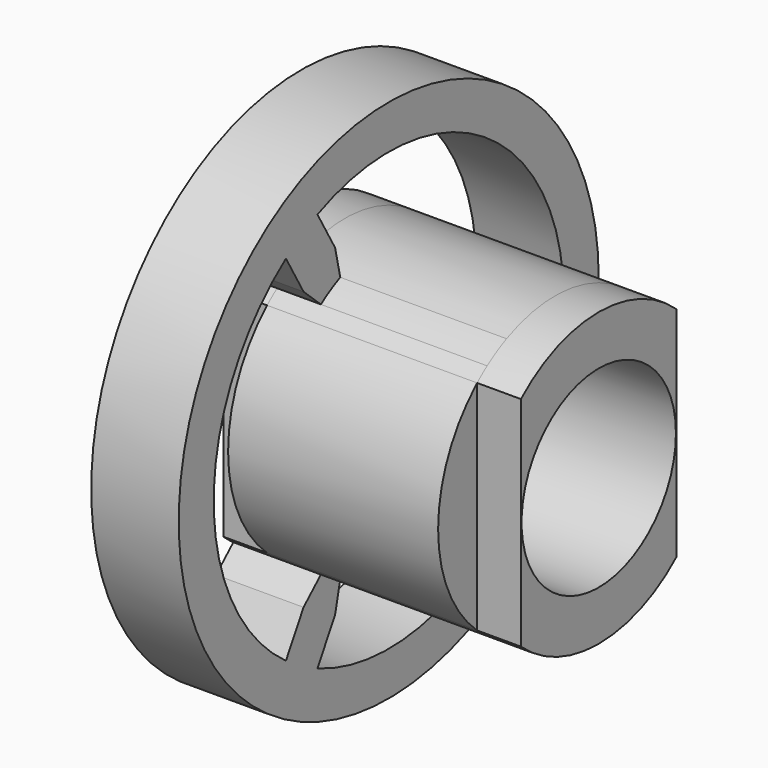
from build123d import *

# Parameters (mm, degrees)
F0_W     = 3.5306
F0_H     = 3.9528298268
F1_DEPTH = 0.79375
F2_DEPTH = 3.81
F3_W     = 3.5306
F3_H     = 3.9528298268
F4_DEPTH = 0.79375
F5_R     = 1.75
F6_DEPTH = 5.3985
F0_R     = 4.7625
F7_DEPTH = 0.79375


with BuildPart() as f1:
    # F0 (on Right) → F1 (new body)
    with BuildSketch(Plane.YZ):
        Rectangle(F0_W, F0_H)
        with BuildLine():
            Line((-1.7653, 1.9764149134), (1.7653, 1.9764149134))
            ThreePointArc((1.7653, 1.9764149134), (0.3978891493, 2.6199588212), (-1.0989290887, 2.4114010156))
            ThreePointArc((-1.0989290887, 2.4114010156), (-1.325, 2.29496732), (-1.5388699938, 2.1574010156))
            ThreePointArc((-1.5388699938, 2.1574010156), (-1.6545615218, 2.0700063214), (-1.7653, 1.9764149134))
        make_face()
        with BuildLine():
            ThreePointArc((-1.0989290887, -2.4114010156), (0.3978891493, -2.6199588212), (1.7653, -1.9764149134))
            Line((1.7653, -1.9764149134), (-1.7653, -1.9764149134))
            ThreePointArc((-1.7653, -1.9764149134), (-1.6545615218, -2.0700063214), (-1.5388699938, -2.1574010156))
            ThreePointArc((-1.5388699938, -2.1574010156), (-1.325, -2.29496732), (-1.0989290887, -2.4114010156))
        make_face()
    extrude(amount=-F1_DEPTH)

    # F0 (on Right) → F2 (join)
    with BuildSketch(Plane.YZ):
        with BuildLine():
            Line((-1.7653, 1.9764149134), (1.7653, 1.9764149134))
            ThreePointArc((1.7653, 1.9764149134), (0.3978891493, 2.6199588212), (-1.0989290887, 2.4114010156))
            ThreePointArc((-1.0989290887, 2.4114010156), (-1.325, 2.29496732), (-1.5388699938, 2.1574010156))
            ThreePointArc((-1.5388699938, 2.1574010156), (-1.6545615218, 2.0700063214), (-1.7653, 1.9764149134))
        make_face()
        with BuildLine():
            ThreePointArc((2.6377990826, -0.254), (2.6469480132, -0.1271464337), (2.65, 0))
            ThreePointArc((2.65, 0), (2.6469480132, 0.1271464337), (2.6377990826, 0.254))
            ThreePointArc((2.6377990826, 0.254), (2.3640005639, 1.1974979473), (1.7653, 1.9764149134))
            Line((1.7653, 1.9764149134), (1.7653, -1.9764149134))
            ThreePointArc((1.7653, -1.9764149134), (2.3640005639, -1.1974979473), (2.6377990826, -0.254))
        make_face()
        with BuildLine():
            Line((-1.7653, -1.9764149134), (-1.7653, 1.9764149134))
            ThreePointArc((-1.7653, 1.9764149134), (-2.65, 0), (-1.7653, -1.9764149134))
        make_face()
        Rectangle(F0_W, F0_H)
        with BuildLine():
            ThreePointArc((-1.0989290887, -2.4114010156), (0.3978891493, -2.6199588212), (1.7653, -1.9764149134))
            Line((1.7653, -1.9764149134), (-1.7653, -1.9764149134))
            ThreePointArc((-1.7653, -1.9764149134), (-1.6545615218, -2.0700063214), (-1.5388699938, -2.1574010156))
            ThreePointArc((-1.5388699938, -2.1574010156), (-1.325, -2.29496732), (-1.0989290887, -2.4114010156))
        make_face()
    extrude(amount=F2_DEPTH)

    # F3 (on face) → F4 (join)
    with BuildSketch(Plane.YZ.offset(3.81)):
        Rectangle(F3_W, F3_H)
        with BuildLine():
            ThreePointArc((1.7653, 1.9764149134), (0, 2.65), (-1.7653, 1.9764149134))
            Line((-1.7653, 1.9764149134), (1.7653, 1.9764149134))
        make_face()
        with BuildLine():
            Line((1.7653, -1.9764149134), (-1.7653, -1.9764149134))
            ThreePointArc((-1.7653, -1.9764149134), (0, -2.65), (1.7653, -1.9764149134))
        make_face()
    extrude(amount=F4_DEPTH)

    # F5 (on face) → F6 (cut, through all)
    with BuildSketch(Plane.YZ.offset(4.60375)):
        Circle(F5_R)
    extrude(amount=-F6_DEPTH, mode=Mode.SUBTRACT)

    # F0 (on Right) → F7 (join, symmetric)
    with BuildSketch(Plane.YZ):
        Circle(F0_R)
        with BuildLine():
            ThreePointArc((-1.6161623386, 3.6247752838), (1.984375, 3.4370383213), (3.9472286481, 0.41275))
            ThreePointArc((3.9472286481, 0.41275), (3.9633660101, 0.2066553478), (3.96875, 0))
            ThreePointArc((3.96875, 0), (3.9633660101, -0.2066553478), (3.9472286481, -0.41275))
            ThreePointArc((3.9472286481, -0.41275), (1.984375, -3.4370383213), (-1.6161623386, -3.6247752838))
            ThreePointArc((-1.6161623386, -3.6247752838), (-1.984375, -3.4370383213), (-2.3310663094, -3.2120252838))
            ThreePointArc((-2.3310663094, -3.2120252838), (-3.96875, 0), (-2.3310663094, 3.2120252838))
            ThreePointArc((-2.3310663094, 3.2120252838), (-1.984375, 3.4370383213), (-1.6161623386, 3.6247752838))
        make_face(mode=Mode.SUBTRACT)
        with BuildLine():
            ThreePointArc((2.6377990826, 0.254), (2.6469480132, 0.1271464337), (2.65, 0))
            ThreePointArc((2.65, 0), (2.6469480132, -0.1271464337), (2.6377990826, -0.254))
            Line((2.6377990826, -0.254), (3.1480569305, -0.41275))
            Line((3.1480569305, -0.41275), (3.9472286481, -0.41275))
            ThreePointArc((3.9472286481, -0.41275), (3.9633660101, -0.2066553478), (3.96875, 0))
            ThreePointArc((3.96875, 0), (3.9633660101, 0.2066553478), (3.9472286481, 0.41275))
            Line((3.9472286481, 0.41275), (3.1480569305, 0.41275))
            Line((3.1480569305, 0.41275), (2.6377990826, 0.254))
        make_face()
        with BuildLine():
            ThreePointArc((-1.5388699938, 2.1574010156), (-1.325, 2.29496732), (-1.0989290887, 2.4114010156))
            Line((-1.0989290887, 2.4114010156), (-1.2165764798, 2.9326722743))
            Line((-1.2165764798, 2.9326722743), (-1.6161623386, 3.6247752838))
            ThreePointArc((-1.6161623386, 3.6247752838), (-1.984375, 3.4370383213), (-2.3310663094, 3.2120252838))
            Line((-2.3310663094, 3.2120252838), (-1.9314804506, 2.5199222743))
            Line((-1.9314804506, 2.5199222743), (-1.5388699938, 2.1574010156))
        make_face()
        with BuildLine():
            Line((-1.2165764798, -2.9326722743), (-1.0989290887, -2.4114010156))
            ThreePointArc((-1.0989290887, -2.4114010156), (-1.325, -2.29496732), (-1.5388699938, -2.1574010156))
            Line((-1.5388699938, -2.1574010156), (-1.9314804506, -2.5199222743))
            Line((-1.9314804506, -2.5199222743), (-2.3310663094, -3.2120252838))
            ThreePointArc((-2.3310663094, -3.2120252838), (-1.984375, -3.4370383213), (-1.6161623386, -3.6247752838))
            Line((-1.6161623386, -3.6247752838), (-1.2165764798, -2.9326722743))
        make_face()
    extrude(amount=F7_DEPTH, both=True)


solid = f1.part
